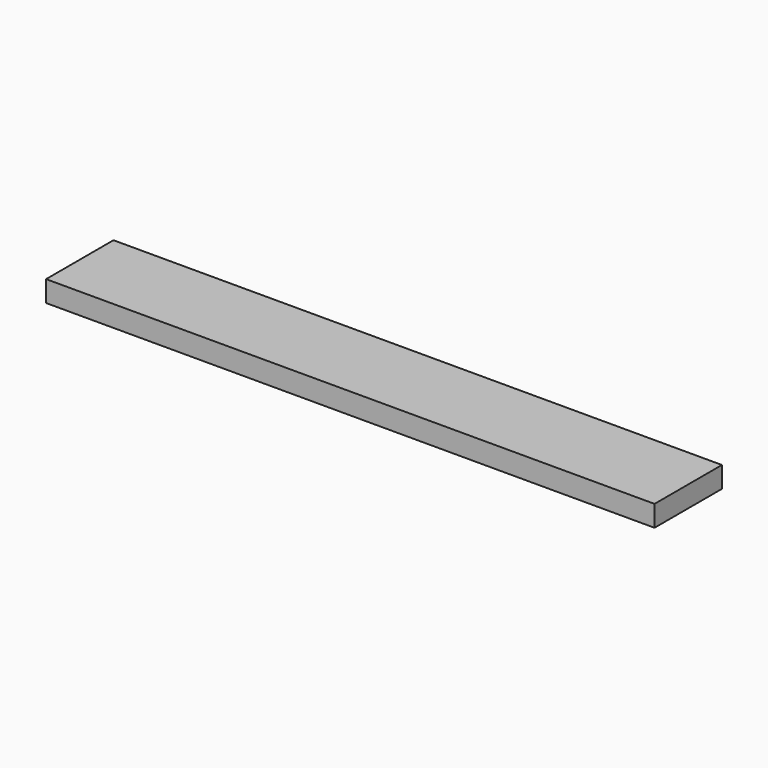
from build123d import *

# Parameters (mm, degrees)
SKETCH_W  = 260
SKETCH_H  = 36
PAD_DEPTH = 9


with BuildPart() as part:
    # Sketch → Pad (new body)
    with BuildSketch(Plane.XY):
        Rectangle(SKETCH_W, SKETCH_H)
    extrude(amount=PAD_DEPTH)


solid = part.part
